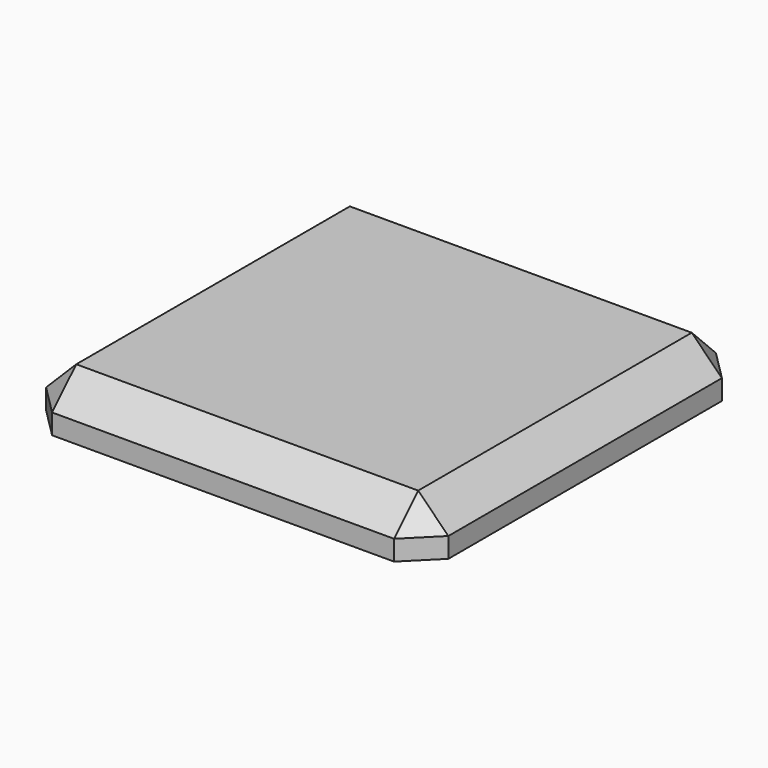
from build123d import *

# Parameters (mm, degrees)
BOX058_W                   = 20
BOX058_H                   = 20
BOX058_DEPTH               = 2.5
SKETCH048_R                = 2.4
PAD015_DEPTH               = 2
CHAMFER001_SIZE            = 1.5
CHAMFER001_PLACEMENT_ANGLE = 180


with BuildPart() as cubo044:
    # Box058 → Box058 (new body)
    with BuildSketch(Plane.XY):
        with Locations((10, 10)):
            Rectangle(BOX058_W, BOX058_H)
    extrude(amount=BOX058_DEPTH)


with BuildPart() as pad015:
    # Pad015 base: copy of Cubo044
    add(cubo044.part)

    # Sketch048 → Pad015 (new body)
    with BuildSketch(Plane.XY.offset(2.5)):
        with Locations((10, 10.425099)):
            Circle(SKETCH048_R)
    extrude(amount=PAD015_DEPTH)


with BuildPart() as chamfer001:
    # Fusion033 base: copy of Cubo044
    add(cubo044.part)

    # Fusion033: union Pad015
    add(pad015.part)

    # Chamfer001
    chamfer001_edges = [chamfer001.edges().sort_by_distance(p)[0] for p in [
        (0, 0, 1.25),
        (0, 10, 0),
        (0, 20, 1.25),
        (10, 0, 0),
        (20, 0, 1.25),
        (10, 20, 0),
        (20, 20, 1.25),
        (20, 10, 0),
    ]]
    chamfer(chamfer001_edges, length=CHAMFER001_SIZE)


with BuildPart() as chamfer001_1:
    # Chamfer001 placement: moved
    add(chamfer001.part.moved(Location((-173, 144, -74.5))).rotate(Axis((-173, 144, -74.5), (1, 0, 0)), CHAMFER001_PLACEMENT_ANGLE))


solid = chamfer001_1.part
